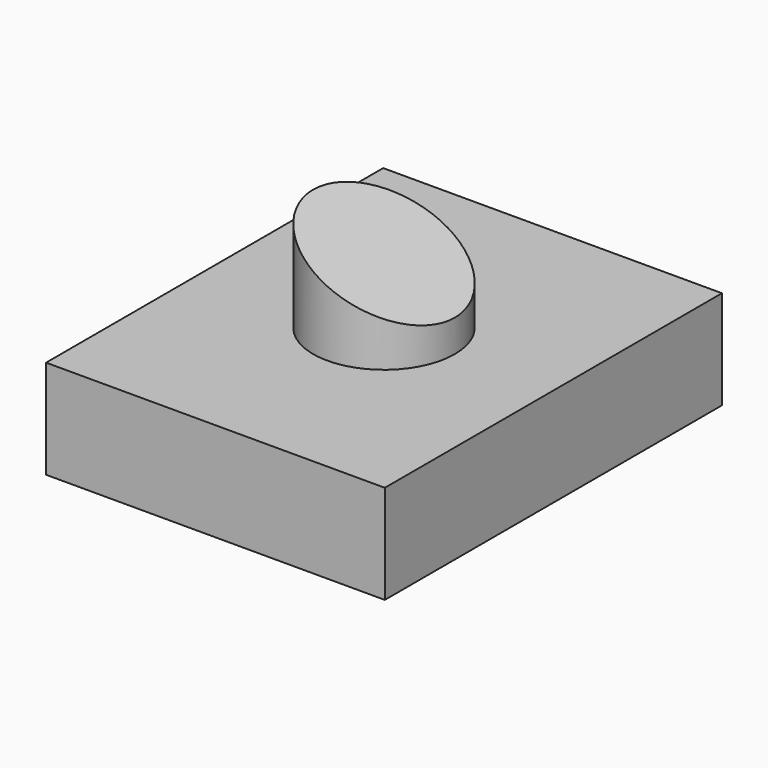
from build123d import *

# Parameters (mm, degrees)
F0_W     = 87.153748
F0_H     = 108.40641
F1_DEPTH = 25.4
F2_R     = 18.230783
F3_DEPTH = 25.4
F5_DEPTH = 38.1


with BuildPart() as f1:
    # F0 (on Top) → F1 (new body)
    with BuildSketch(Plane.XY):
        Rectangle(F0_W, F0_H)
    extrude(amount=F1_DEPTH)

    # F2 (on face) → F3 (join)
    with BuildSketch(Plane.XY.offset(25.4)):
        Circle(F2_R)
    extrude(amount=F3_DEPTH)

    # F4 (on Front) → F5 (cut, symmetric)
    with BuildSketch(Plane.XZ):
        Polygon((18.230783, 33.664923), (18.230783, 50.8), (-18.230783, 50.8), align=None)
    extrude(amount=F5_DEPTH, both=True, mode=Mode.SUBTRACT)


solid = f1.part
